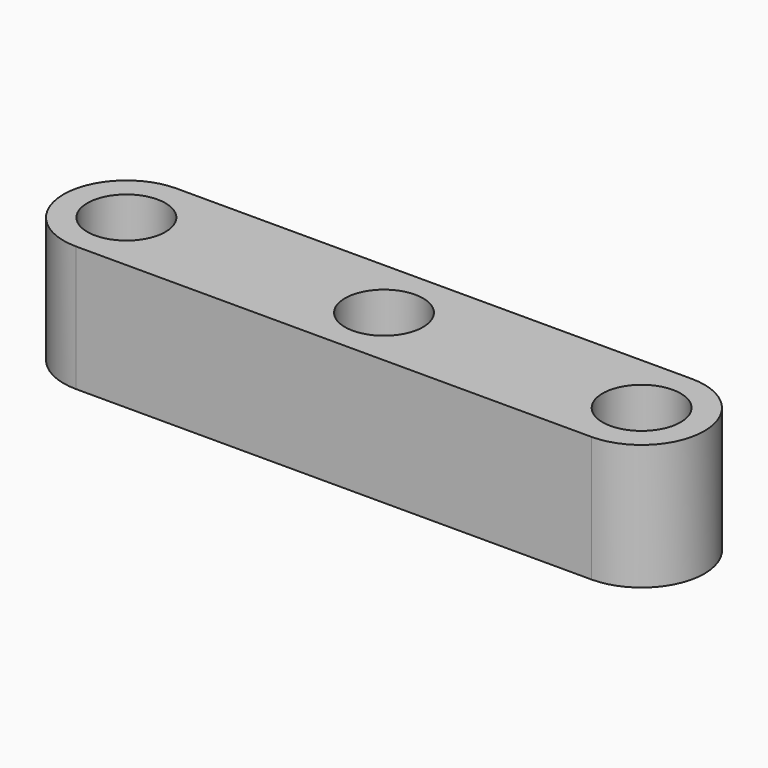
from build123d import *

# Parameters (mm, degrees)
F0_R     = 2.425
F1_DEPTH = 7.8
F2_R     = 2.425
F3_DEPTH = 7.8


with BuildPart() as f1:
    # F0 (on Top) → F1 (new body)
    with BuildSketch(Plane.XY):
        with BuildLine():
            ThreePointArc((16, -3.9), (19.9, 0), (16, 3.9))
            Line((16, 3.9), (-16, 3.9))
            ThreePointArc((-16, 3.9), (-19.9, 0), (-16, -3.9))
            Line((-16, -3.9), (16, -3.9))
        make_face()
        with Locations((-16, 0)):
            Circle(F0_R, mode=Mode.SUBTRACT)
        Circle(F0_R, mode=Mode.SUBTRACT)
        with Locations((16, 0)):
            Circle(F0_R, mode=Mode.SUBTRACT)
    extrude(amount=F1_DEPTH)

    # F2 (on face) → F3 (join)
    with BuildSketch(Plane.XZ.offset(3.9)):
        with Locations((-8, 3.9)):
            Circle(F2_R)
        with BuildLine():
            ThreePointArc((10.425, 3.9), (8, 6.325), (5.575, 3.9))
            ThreePointArc((5.575, 3.9), (8, 1.475), (10.425, 3.9))
        make_face()
    extrude(amount=-F3_DEPTH)


solid = f1.part
